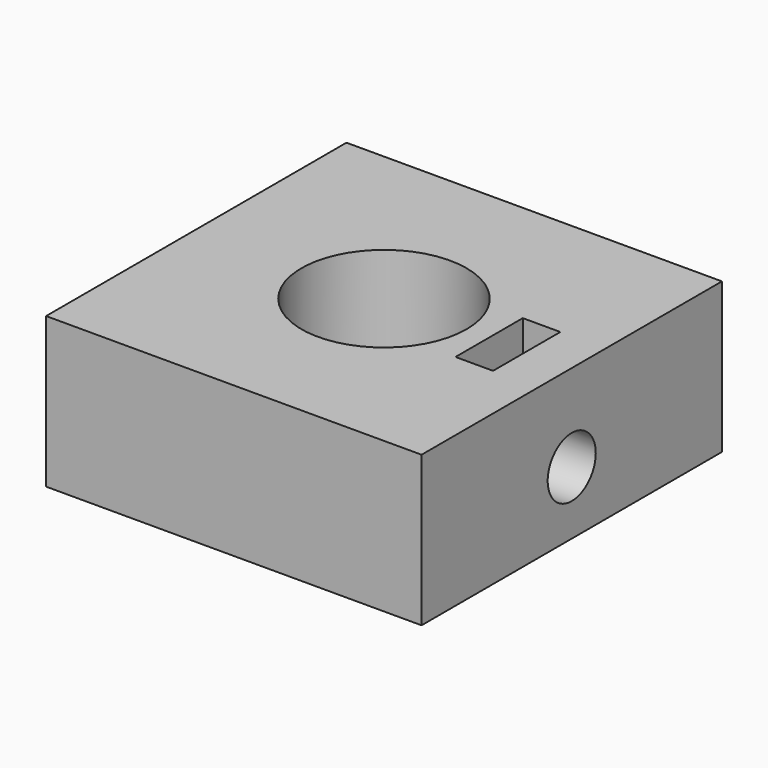
from build123d import *

# Parameters (mm, degrees)
SKETCH_W        = 25
SKETCH_H        = 25
SKETCH_R        = 5.5
PAD_DEPTH       = 10
SKETCH001_R     = 2
POCKET_DEPTH    = 5
SKETCH002_W     = 2.5
SKETCH002_H     = 5.6
POCKET001_DEPTH = 5


with BuildPart() as part:
    # Sketch → Pad (new body)
    with BuildSketch(Plane.XY):
        Rectangle(SKETCH_W, SKETCH_H)
        Circle(SKETCH_R, mode=Mode.SUBTRACT)
    extrude(amount=PAD_DEPTH)

    # Sketch001 (on Face1 of Pad) → Pocket (cut)
    with BuildSketch(Plane.YZ.offset(12.5)):
        with Locations((0, 4.2)):
            Circle(SKETCH001_R)
    extrude(amount=-POCKET_DEPTH, mode=Mode.SUBTRACT)

    # Sketch002 (on Face4 of Pocket) → Pocket001 (cut)
    with BuildSketch(Plane.XY.offset(10)):
        with Locations((8.25, 0)):
            Rectangle(SKETCH002_W, SKETCH002_H)
    extrude(amount=-POCKET001_DEPTH, mode=Mode.SUBTRACT)


solid = part.part
